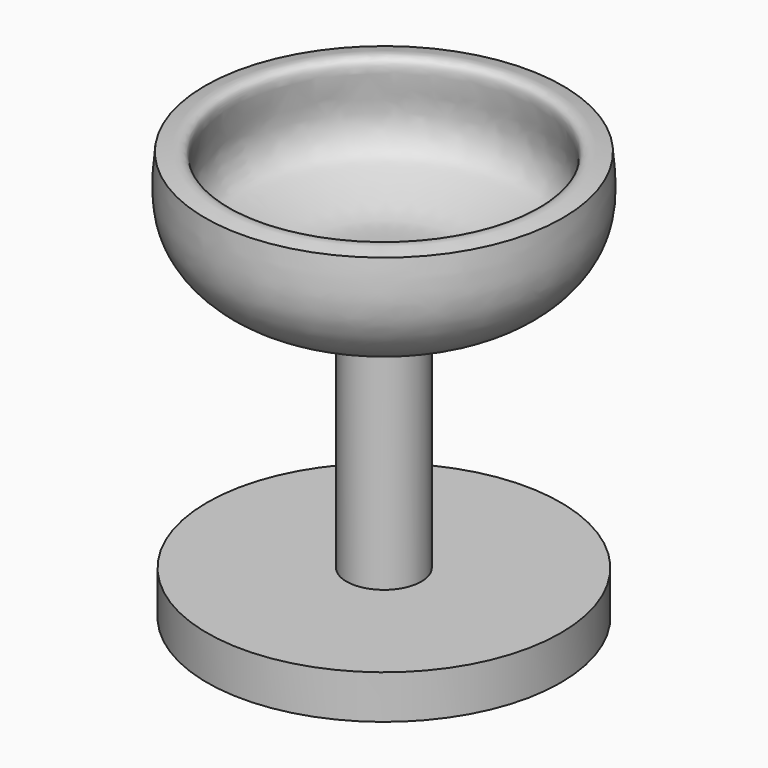
from build123d import *


with BuildPart() as f1:
    # F0 (on Front) → F1 (revolve)
    with BuildSketch(Plane.XZ):
        with BuildLine():
            Line((-23.4512072057, 0), (0, 0))
            Line((0, 0), (0, 41.1085858941))
            add(Edge.make_bspline(
                [(-23.7271059304, 54.3516203761), (-22.3229060388, 54.705761953), (-19.0164298216, 55.539660822), (-21.5109980771, 48.0925077279), (-19.4881118551, 44.1640328958), (-17.4493125776, 43.3254965724), (-10.8471831951, 40.8044662165), (-8.0382988722, 40.8057636115), (-3.0716090002, 40.9928709072), (0, 41.1085858941)],
                knots=[0, 0, 0, 0, 0.1215604336, 0.2862389357, 0.4215394467, 0.5211785753, 0.6943455848, 0.8109705102, 1, 1, 1, 1], degree=3))
            add(Edge.make_bspline(
                [(-4.9661365338, 38.9014147222), (-8.7924755584, 38.322899215), (-16.2175871832, 37.2002746408), (-24.6297528199, 45.1104084508), (-24.023005672, 51.322227319), (-23.7271059304, 54.3516203761)],
                knots=[0, 0, 0, 0, 0.3526309772, 0.684289696, 1, 1, 1, 1], degree=3))
            Line((-4.9661365338, 38.9014147222), (-4.9661365338, 5.7938275859))
            Line((-4.9661365338, 5.7938275859), (-23.4512072057, 5.7938275859))
            Line((-23.4512072057, 5.7938275859), (-23.4512072057, 0))
        make_face()
    revolve(axis=Axis((0, 0, 37.7978272736), (0, 0, 1)))


solid = f1.part
